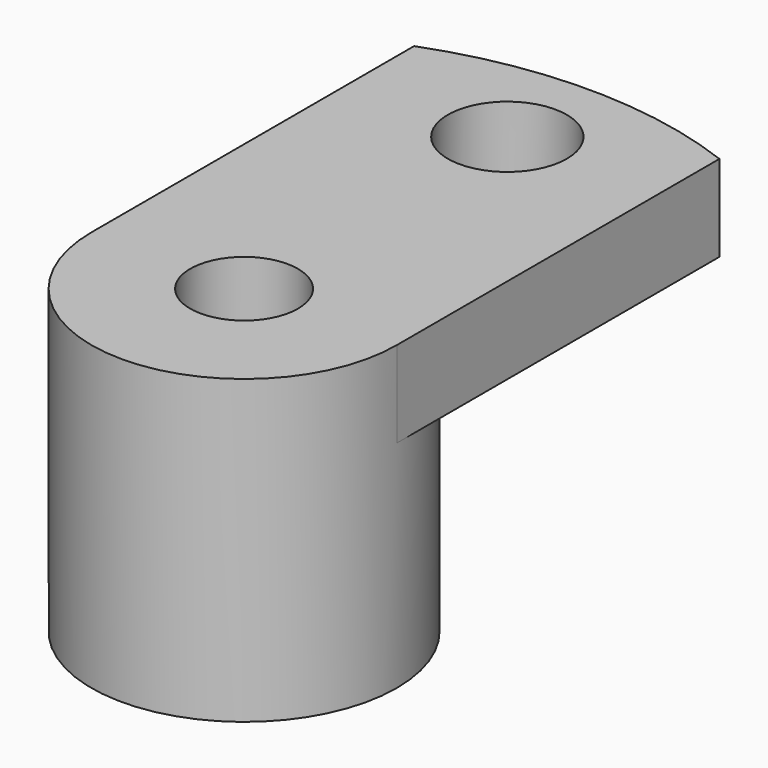
from build123d import *

# Parameters (mm, degrees)
F0_R     = 4.4958
F0_R_2   = 1.5875
F1_DEPTH = 6.35
F2_R     = 12.7
F2_R_2   = 1.7526
F2_R_3   = 1.5875
F3_DEPTH = 2.54
F4_W     = 58.600948
F4_H     = 48.189808
F5_DEPTH = 25.4


with BuildPart() as f1:
    # F0 (on Top) → F1 (new body)
    with BuildSketch(Plane.XY):
        Circle(F0_R)
        Circle(F0_R_2, mode=Mode.SUBTRACT)
    extrude(amount=F1_DEPTH)

    # F2 (on face) → F3 (join)
    with BuildSketch(Plane.XY.offset(6.35)):
        Circle(F2_R)
        with Locations((0, -9.6901)):
            Circle(F2_R_2, mode=Mode.SUBTRACT)
        with Locations((-8.391873, -4.84505)):
            Circle(F2_R_2, mode=Mode.SUBTRACT)
        Circle(F2_R_3, mode=Mode.SUBTRACT)
        with Locations((8.391873, -4.84505)):
            Circle(F2_R_2, mode=Mode.SUBTRACT)
        with Locations((-8.391873, 4.84505)):
            Circle(F2_R_2, mode=Mode.SUBTRACT)
        with Locations((0, 9.6901)):
            Circle(F2_R_2, mode=Mode.SUBTRACT)
        with Locations((8.391873, 4.84505)):
            Circle(F2_R_2, mode=Mode.SUBTRACT)
    extrude(amount=F3_DEPTH)

    # F4 (on face) → F5 (cut)
    with BuildSketch(Plane.XY.offset(8.89)):
        Rectangle(F4_W, F4_H)
        with BuildLine():
            ThreePointArc((4.4958, 0), (0, -4.4958), (-4.4958, 0))
            Line((-4.4958, 0), (-4.4958, 11.877617))
            ThreePointArc((-4.4958, 11.877617), (0, 12.7), (4.4958, 11.877617))
            Line((4.4958, 11.877617), (4.4958, 0))
        make_face(mode=Mode.SUBTRACT)
    extrude(amount=-F5_DEPTH, mode=Mode.SUBTRACT)


solid = f1.part
